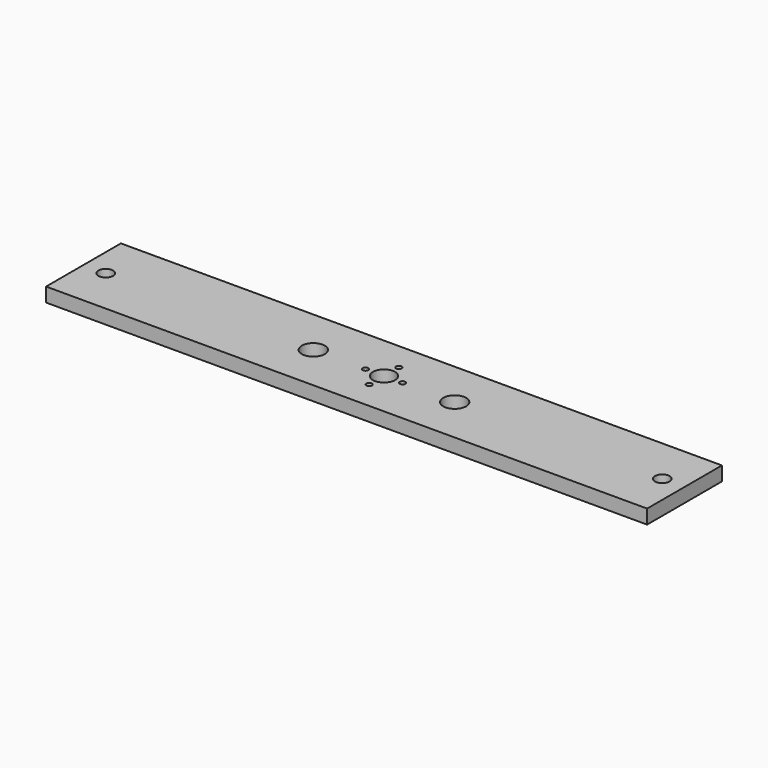
from build123d import *

# Parameters (mm, degrees)
F0_W     = 270
F0_H     = 42
F1_DEPTH = 6.35
F2_R     = 5
F3_DEPTH = 6.351
F4_R     = 3.3
F5_DEPTH = 6.351
F6_R     = 5.16
F7_DEPTH = 6.351
F8_R     = 1.25
F9_DEPTH = 6.351


with BuildPart() as f1:
    # F0 (on Top) → F1 (new body)
    with BuildSketch(Plane.XY):
        with Locations((135, 21)):
            Rectangle(F0_W, F0_H)
    extrude(amount=F1_DEPTH)

    # F2 (on face) → F3 (cut, through all)
    with BuildSketch(Plane.XY.offset(6.35)):
        with Locations((135, 21)):
            Circle(F2_R)
    extrude(amount=-F3_DEPTH, mode=Mode.SUBTRACT)

    # F4 (on face) → F5 (cut, through all)
    with BuildSketch(Plane.XY.offset(6.35)):
        with Locations((10, 21)):
            Circle(F4_R)
        with Locations((260, 21)):
            Circle(F4_R)
    extrude(amount=-F5_DEPTH, mode=Mode.SUBTRACT)

    # F6 (on face) → F7 (cut, through all)
    with BuildSketch(Plane.XY.offset(6.35)):
        with Locations((103.25, 21)):
            Circle(F6_R)
        with Locations((166.75, 21)):
            Circle(F6_R)
    extrude(amount=-F7_DEPTH, mode=Mode.SUBTRACT)

    # F8 (on face) → F9 (cut, through all)
    with BuildSketch(Plane.XY.offset(6.35)):
        with Locations((135, 29.32)):
            Circle(F8_R)
        with Locations((126.68, 21)):
            Circle(F8_R)
        with Locations((135, 12.68)):
            Circle(F8_R)
        with Locations((143.32, 21)):
            Circle(F8_R)
    extrude(amount=-F9_DEPTH, mode=Mode.SUBTRACT)


solid = f1.part
